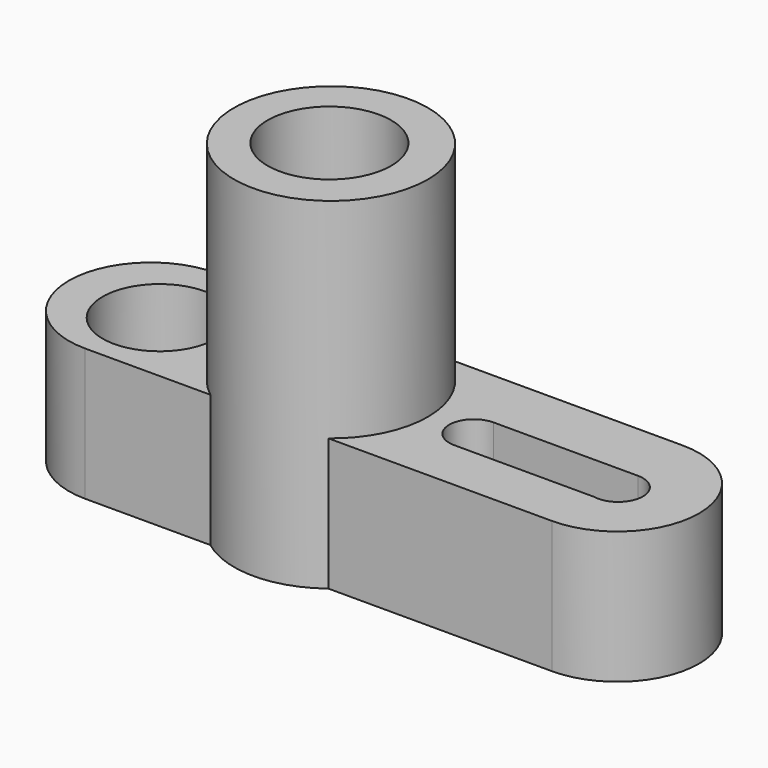
from build123d import *

# Parameters (mm, degrees)
F0_R     = 10.927197
F2_DEPTH = 25.4
F1_R     = 18.62338
F3_DEPTH = 65.532
F4_R     = 11.856878
F5_DEPTH = 104.902


with BuildPart() as f2:
    # F0 (on Top) → F2 (new body)
    with BuildSketch(Plane.XY):
        with BuildLine():
            Line((-50.901599, -14.7828), (38.709603, -14.7828))
            ThreePointArc((38.709603, -14.7828), (54.406804, 0.9144), (38.709603, 16.6116))
            Line((38.709603, 16.6116), (-50.901599, 16.6116))
            ThreePointArc((-50.901599, 16.6116), (-66.5988, 0.9144), (-50.901599, -14.7828))
        make_face()
        with Locations((-48.463199, 0)):
            Circle(F0_R, mode=Mode.SUBTRACT)
        with BuildLine():
            ThreePointArc((11.887199, -4.7244), (7.162799, 0), (11.887199, 4.7244))
            Line((11.887199, 4.7244), (39.624002, 4.7244))
            ThreePointArc((39.624002, 4.7244), (44.370473, -0.50358), (38.709603, -4.7244))
            Line((38.709603, -4.7244), (11.887199, -4.7244))
        make_face(mode=Mode.SUBTRACT)
    extrude(amount=F2_DEPTH)

    # F1 (on Top) → F3 (join)
    with BuildSketch(Plane.XY):
        with Locations((-15.544801, 0)):
            Circle(F1_R)
    extrude(amount=F3_DEPTH)

    # F4 (on Top) → F5 (cut)
    with BuildSketch(Plane.XY):
        with Locations((-15.849601, 0)):
            Circle(F4_R)
    extrude(amount=F5_DEPTH, mode=Mode.SUBTRACT)


solid = f2.part
